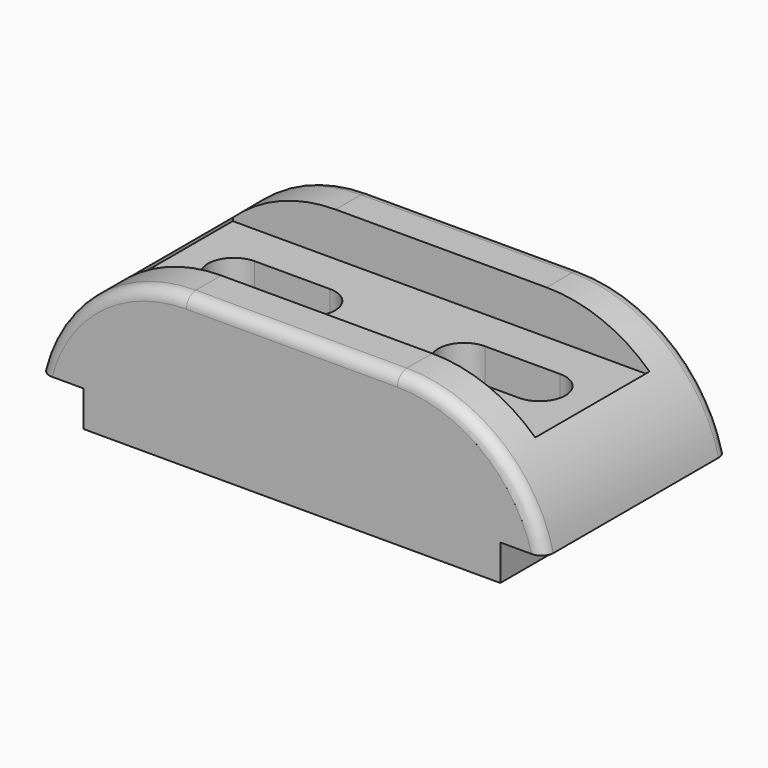
from build123d import *

# Parameters (mm, degrees)
F1_DEPTH = 58
F3_START = -27
F2_W     = 105
F2_H     = 36
F3_DEPTH = 11
F4_R     = 3
F5_R     = 3
F7_DEPTH = 50


with BuildPart() as f1:
    # F0 (on Front) → F1 (new body)
    with BuildSketch(Plane.XZ):
        with BuildLine():
            Line((0, 9), (0, 0))
            Line((0, 0), (105, 0))
            Line((105, 0), (105, 9))
            Line((105, 9), (116, 9))
            ThreePointArc((116, 9), (102.5545593047, 29.883105595), (79.0811701161, 38))
            Line((79.0811701161, 38), (25.9188298839, 38))
            ThreePointArc((25.9188298839, 38), (2.4454406953, 29.883105595), (-11, 9))
            Line((-11, 9), (0, 9))
        make_face()
    extrude(amount=-F1_DEPTH)

    # F2 (on face) → F3 (cut)
    with BuildSketch(Plane(origin=(0, 0, 0), x_dir=(1, 0, 0), z_dir=(0, 0, -1)).offset(F3_START)):
        with Locations((52.5, -29)):
            Rectangle(F2_W, F2_H)
    extrude(amount=-F3_DEPTH, mode=Mode.SUBTRACT)

    # F4
    f4_edges = [f1.edges().sort_by_distance(p)[0] for p in [
        (102.554559, 58, 29.883106),
        (52.5, 58, 38),
        (2.445441, 58, 29.883106),
    ]]
    fillet(f4_edges, radius=F4_R)

    # F5
    f5_edges = [f1.edges().sort_by_distance(p)[0] for p in [
        (52.5, 0, 38),
        (2.445441, 0, 29.883106),
        (102.554559, 0, 29.883106),
    ]]
    fillet(f5_edges, radius=F5_R)

    # F6 (on face) → F7 (cut)
    with BuildSketch(Plane.XY.offset(27)):
        with BuildLine():
            Line((72, 23.3612143666), (91, 23.3612143666))
            ThreePointArc((91, 23.3612143666), (97.5, 29.8612143666), (91, 36.3612143666))
            Line((91, 36.3612143666), (72, 36.3612143666))
            ThreePointArc((72, 36.3612143666), (65.5, 29.8612143666), (72, 23.3612143666))
        make_face()
        with BuildLine():
            Line((33, 36.3612149123), (14, 36.3612149123))
            ThreePointArc((14, 36.3612149123), (7.5, 29.8612149123), (14, 23.3612149123))
            Line((14, 23.3612149123), (33, 23.3612149123))
            ThreePointArc((33, 23.3612149123), (39.5, 29.8612149123), (33, 36.3612149123))
        make_face()
    extrude(amount=-F7_DEPTH, mode=Mode.SUBTRACT)


solid = f1.part
